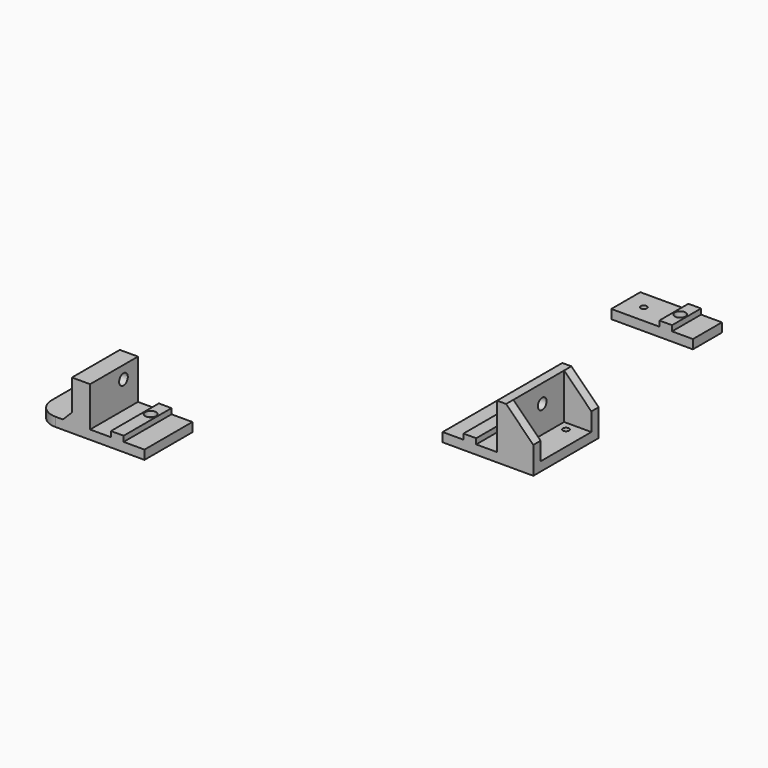
from build123d import *

# Parameters (mm, degrees)
SKETCH021_W             = 60
SKETCH021_H             = 33
SKETCH021_R             = 1.7
PAD035_DEPTH            = 5
SKETCH022_W             = 10
SKETCH022_H             = 33
PAD036_DEPTH            = 22
SKETCH023_R             = 3
POCKET004_DEPTH         = 10
CHAMFER_SIZE            = 5
FILLET_R                = 11
FILLET001_R             = 5
SKETCH028_W             = 7
SKETCH028_H             = 33
PAD041_DEPTH            = 3
HOLE_D                  = 3.5
HOLE_CBORE_D            = 6
HOLE_CBORE_DEPTH        = 3
SKETCH024_W             = 50
SKETCH024_H             = 45
SKETCH024_R             = 1.7
PAD038_DEPTH            = 5
PAD039_DEPTH            = 25
SKETCH027_W             = 7
SKETCH027_H             = 45
PAD040_DEPTH            = 3
SKETCH031_R             = 3
POCKET_DEPTH            = 5
CHAMFER001_SIZE         = 15
BODY037_PLACEMENT_ANGLE = 180
SKETCH_W                = 45
SKETCH_H                = 20
SKETCH_R                = 1.7
PAD_DEPTH               = 5
SKETCH032_W             = 7
SKETCH032_H             = 20
PAD042_DEPTH            = 3
HOLE001_D               = 3.3
HOLE001_DEPTH           = 25
HOLE001_CBORE_D         = 6
HOLE001_CBORE_DEPTH     = 3
BODY_PLACEMENT_ANGLE    = 180
CLONE_PLACEMENT_ANGLE   = 180
BODY038_PLACEMENT_ANGLE = 180


with BuildPart() as obj1:
    # Sketch021 → Pad035 (new body)
    with BuildSketch(Plane.XY):
        with Locations((0, 16.5)):
            Rectangle(SKETCH021_W, SKETCH021_H)
        with Locations((-20, 10)):
            Circle(SKETCH021_R, mode=Mode.SUBTRACT)
    extrude(amount=PAD035_DEPTH)

    # Sketch022 (on Face7 of Pad035) → Pad036 (join)
    with BuildSketch(Plane.XY.offset(5)):
        with Locations((-5, 16.5)):
            Rectangle(SKETCH022_W, SKETCH022_H)
    extrude(amount=PAD036_DEPTH)

    # Sketch023 (on Face10 of Pad036) → Pocket004 (cut)
    with BuildSketch(Plane(origin=(-10, 0, 0), x_dir=(0, -1, 0), z_dir=(-1, 0, 0))):
        with Locations((-10, 20)):
            Circle(SKETCH023_R)
    extrude(amount=-POCKET004_DEPTH, mode=Mode.SUBTRACT)

    # Chamfer
    chamfer_edges = [obj1.edges().sort_by_distance(p)[0] for p in [
        (-10, 16.5, 5),
    ]]
    chamfer(chamfer_edges, length=CHAMFER_SIZE)

    # Fillet
    fillet_edges = [obj1.edges().sort_by_distance(p)[0] for p in [
        (-30, 33, 2.5),
    ]]
    fillet(fillet_edges, radius=FILLET_R)

    # Fillet001
    fillet001_edges = [obj1.edges().sort_by_distance(p)[0] for p in [
        (-30, 0, 2.5),
    ]]
    fillet(fillet001_edges, radius=FILLET001_R)

    # Sketch028 (on Face12 of Fillet001) → Pad041 (join)
    with BuildSketch(Plane.XY.offset(5)):
        with Locations((15, 16.5)):
            Rectangle(SKETCH028_W, SKETCH028_H)
    extrude(amount=PAD041_DEPTH)

    # Hole (through all)
    with Locations(Plane.XY.offset(8)):
        with Locations((15, 10)):
            CounterBoreHole(HOLE_D / 2, HOLE_CBORE_D / 2, HOLE_CBORE_DEPTH)


with BuildPart() as obj1_1:
    # Body036 placement: moved
    add(obj1.part.moved(Location((-135, 60, 0))))


with BuildPart() as obj2:
    # Part__Mirroring: instance of obj1
    add(obj1_1.part.mirror(Plane(origin=(-135, -1e-06, -13.5), x_dir=(1, 0, 0), z_dir=(0, 1, 0))))


with BuildPart() as obj2_1:
    # Part__Mirroring placement: moved
    add(obj2.part.moved(Location((0, -75, 0))))


with BuildPart() as obj3:
    # Sketch024 → Pad038 (new body)
    with BuildSketch(Plane.XY):
        with Locations((5, -2.5)):
            Rectangle(SKETCH024_W, SKETCH024_H)
        with Locations((-10, -15)):
            Circle(SKETCH024_R, mode=Mode.SUBTRACT)
        with Locations((-10, 10)):
            Circle(SKETCH024_R, mode=Mode.SUBTRACT)
    extrude(amount=PAD038_DEPTH)

    # Sketch025 → Pad039 (join)
    with BuildSketch(Plane.XY.offset(5)):
        Polygon((-5, -20), (-20, -20), (-20, -25), (0, -25), (0, 20), (-20, 20), (-20, 15), (-5, 15), align=None)
    extrude(amount=PAD039_DEPTH)

    # Sketch027 → Pad040 (join)
    with BuildSketch(Plane.XY.offset(5)):
        with Locations((15, -2.5)):
            Rectangle(SKETCH027_W, SKETCH027_H)
    extrude(amount=PAD040_DEPTH)

    # Sketch031 → Pocket (cut)
    with BuildSketch(Plane(origin=(-5, 0, 0), x_dir=(0, -1, 0), z_dir=(-1, 0, 0))):
        with Locations((4.873356, 20)):
            Circle(SKETCH031_R)
    extrude(amount=-POCKET_DEPTH, mode=Mode.SUBTRACT)

    # Chamfer001
    chamfer001_edges = [obj3.edges().sort_by_distance(p)[0] for p in [
        (-20, 17.5, 30),
        (-20, -22.5, 30),
    ]]
    chamfer(chamfer001_edges, length=CHAMFER001_SIZE)


with BuildPart() as obj3_1:
    # Body037 placement: moved
    add(obj3.part.moved(Location((15, -55, 0))).rotate(Axis((15, -55, 0), (0, 0, 1)), BODY037_PLACEMENT_ANGLE))


with BuildPart() as obj4:
    # Sketch → Pad (new body)
    with BuildSketch(Plane.XY):
        with Locations((22.5, 0)):
            Rectangle(SKETCH_W, SKETCH_H)
        with Locations((35, 0)):
            Circle(SKETCH_R, mode=Mode.SUBTRACT)
    extrude(amount=PAD_DEPTH)

    # Sketch032 (on Face7 of Pad) → Pad042 (join)
    with BuildSketch(Plane.XY.offset(5)):
        with Locations((15, 0)):
            Rectangle(SKETCH032_W, SKETCH032_H)
    extrude(amount=PAD042_DEPTH)

    # Hole001
    with Locations(Plane.XY.offset(8)):
        with Locations((15, 0)):
            CounterBoreHole(HOLE001_D / 2, HOLE001_CBORE_D / 2, HOLE001_CBORE_DEPTH, depth=HOLE001_DEPTH)


with BuildPart() as obj4_1:
    # Body placement: moved
    add(obj4.part.moved(Location((15, -145, 0))).rotate(Axis((15, -145, 0), (0, 0, 1)), BODY_PLACEMENT_ANGLE))


with BuildPart() as obj4_2:
    # Clone placement: moved
    add(obj4_1.part.moved(Location((15, -145, 0))).rotate(Axis((15, -145, 0), (0, 0, -1)), CLONE_PLACEMENT_ANGLE))


with BuildPart() as obj4_3:
    # Body038 placement: moved
    add(obj4_2.part.moved(Location((15, 70, 0))).rotate(Axis((15, 70, 0), (0, 0, 1)), BODY038_PLACEMENT_ANGLE))


solid = Compound([obj2_1.part, obj3_1.part, obj4_3.part])
